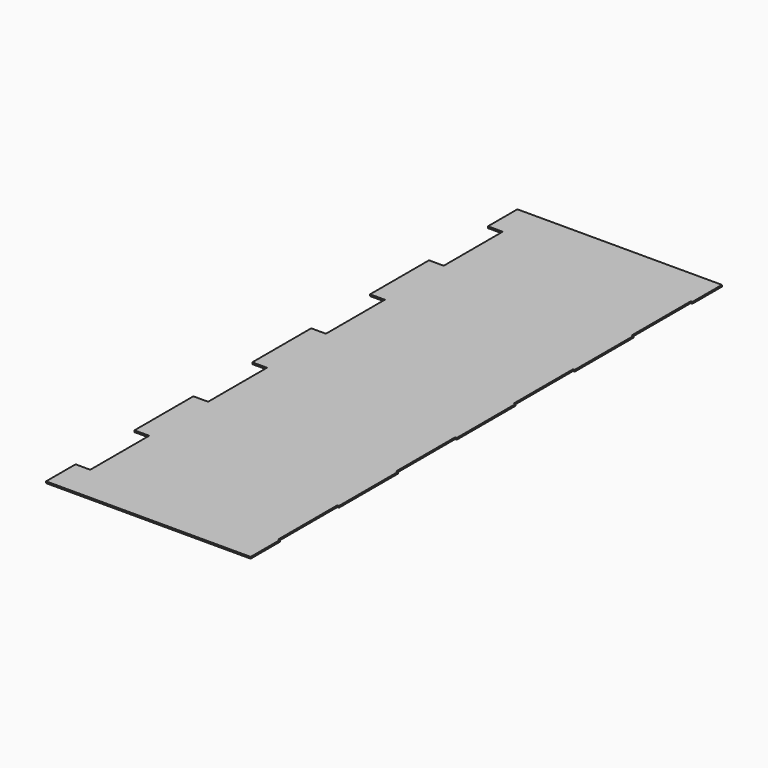
from build123d import *

# Parameters (mm, degrees)
BOX019_W         = 9
BOX019_H         = 45
BOX019_DEPTH     = 1
ARRAY006_Y_COUNT = 4
ARRAY006_Y_PITCH = 90
BOX017_W         = 1
BOX017_H         = 45
BOX017_DEPTH     = 1
ARRAY005_Y_COUNT = 4
ARRAY005_Y_PITCH = 90
BOX020_W         = 125
BOX020_H         = 360
BOX020_DEPTH     = 1


with BuildPart() as array006:
    # Box019 → Box019 (new body)
    with BuildSketch(Plane(origin=(-125, 0, 0), x_dir=(1, 0, 0), z_dir=(0, 0, 1))):
        with Locations((4.5, 22.5)):
            Rectangle(BOX019_W, BOX019_H)
    extrude(amount=BOX019_DEPTH)

    # Array006 Y: Array006 ×4


with BuildPart() as array006_1:
    add(array006.part)
    with Locations(*[(0, i * ARRAY006_Y_PITCH, 0) for i in range(1, ARRAY006_Y_COUNT)]):
        add(array006.part)


with BuildPart() as array006_2:
    # Array006 placement: moved
    add(array006_1.part.moved(Location((0, 22.5, 0))))


with BuildPart() as array005:
    # Box017 → Box017 (new body)
    with BuildSketch(Plane(origin=(-1, 0, 0), x_dir=(1, 0, 0), z_dir=(0, 0, 1))):
        with Locations((0.5, 22.5)):
            Rectangle(BOX017_W, BOX017_H)
    extrude(amount=BOX017_DEPTH)

    # Array005 Y: Array005 ×4


with BuildPart() as array005_1:
    add(array005.part)
    with Locations(*[(0, i * ARRAY005_Y_PITCH, 0) for i in range(1, ARRAY005_Y_COUNT)]):
        add(array005.part)


with BuildPart() as array005_2:
    # Array005 placement: moved
    add(array005_1.part.moved(Location((0, 22.5, 0))))


with BuildPart() as cut002008005003:
    # Box020 → Box020 (new body)
    with BuildSketch(Plane(origin=(-125, 0, 0), x_dir=(1, 0, 0), z_dir=(0, 0, 1))):
        with Locations((62.5, 180)):
            Rectangle(BOX020_W, BOX020_H)
    extrude(amount=BOX020_DEPTH)

    # Cut002008005004: cut Array005
    add(array005_2.part, mode=Mode.SUBTRACT)

    # Cut002008005003: cut Array006
    add(array006_2.part, mode=Mode.SUBTRACT)


solid = cut002008005003.part
